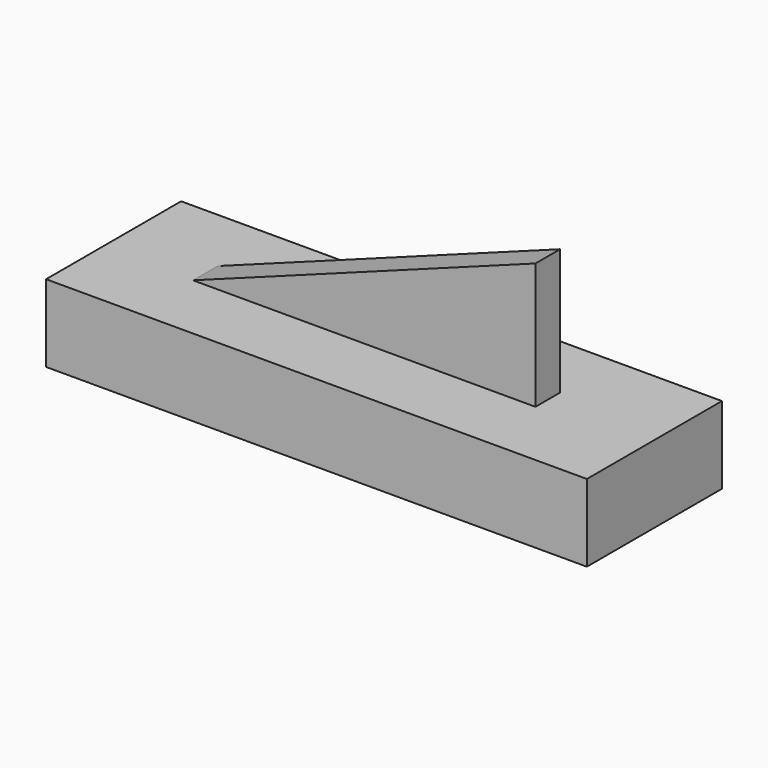
from build123d import *

# Parameters (mm, degrees)
F0_W          = 177.8
F0_H          = 55.496745
F1_DEPTH      = 25.4
F3_DEPTH      = 7.62
F3_DEPTH_BACK = 2.54


with BuildPart() as f1:
    # F0 (on Top) → F1 (new body)
    with BuildSketch(Plane.XY):
        with Locations((0.590887, -2.954431)):
            Rectangle(F0_W, F0_H)
    extrude(amount=F1_DEPTH)

    # F2 (on Front) → F3 (join, two sides)
    with BuildSketch(Plane.XZ) as f3_sk:
        Polygon((54.116055, 66.88869), (-58.625646, 25.348367), (54.116055, 25.078142), align=None)
    extrude(amount=F3_DEPTH)
    extrude(f3_sk.sketch, amount=-F3_DEPTH_BACK)


solid = f1.part
